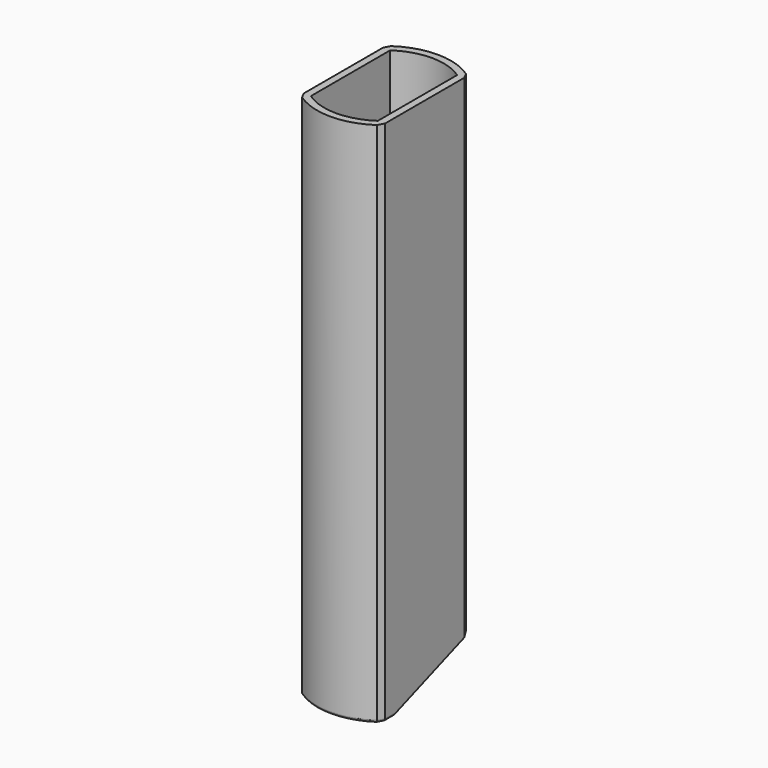
from build123d import *

# Parameters (mm, degrees)
F1_DEPTH = 139.7
F3_DEPTH = 10.795
F4_R     = 0.635


with BuildPart() as f1:
    # F0 (on Top) → F1 (new body)
    with BuildSketch(Plane.XY):
        with BuildLine():
            Line((-9.965403, 14.724749), (-10.795, 13.15232))
            Line((-10.795, 13.15232), (-10.795, -13.15232))
            Line((-10.795, -13.15232), (-9.965403, -14.724749))
            ThreePointArc((-9.965403, -14.724749), (0, -17.806574), (9.965403, -14.724749))
            Line((9.965403, -14.724749), (10.795, -13.15232))
            Line((10.795, -13.15232), (10.795, 13.15232))
            Line((10.795, 13.15232), (9.965403, 14.724749))
            ThreePointArc((9.965403, 14.724749), (0, 17.806574), (-9.965403, 14.724749))
        make_face()
        with BuildLine():
            Line((-8.89, -13.15232), (-8.89, 13.15232))
            ThreePointArc((-8.89, 13.15232), (0, 15.901574), (8.89, 13.15232))
            Line((8.89, 13.15232), (8.89, -13.15232))
            ThreePointArc((8.89, -13.15232), (0, -15.901574), (-8.89, -13.15232))
        make_face(mode=Mode.SUBTRACT)
    extrude(amount=F1_DEPTH)

    # F2 (on Right) → F3 (cut, symmetric)
    with BuildSketch(Plane.YZ):
        Polygon((24.65296, 12.700437), (-9.836838, 0), (0, 0), (24.65296, 0), align=None)
    extrude(amount=F3_DEPTH, both=True, mode=Mode.SUBTRACT)

    # F4
    f4_edges = [f1.edges().sort_by_distance(p)[0] for p in [
        (10.795, 1.657741, 4.232735),
        (0, 17.806574, 10.179341),
        (0, 15.901574, 9.477848),
        (8.89, 1.657741, 4.232735),
        (-10.795, 1.657741, 4.232735),
        (10.380202, 13.938535, 8.754984),
        (-10.380202, 13.938535, 8.754984),
        (-10.795, -11.494579, 0),
        (-10.380202, -13.938535, 0),
        (0, -17.806574, 0),
        (0, -15.901574, 0),
        (8.89, -11.494579, 0),
        (10.795, -11.494579, 0),
        (10.380202, -13.938535, 0),
        (-8.89, -11.494579, 0),
        (-8.89, 1.657741, 4.232735),
    ]]
    fillet(f4_edges, radius=F4_R)


solid = f1.part
